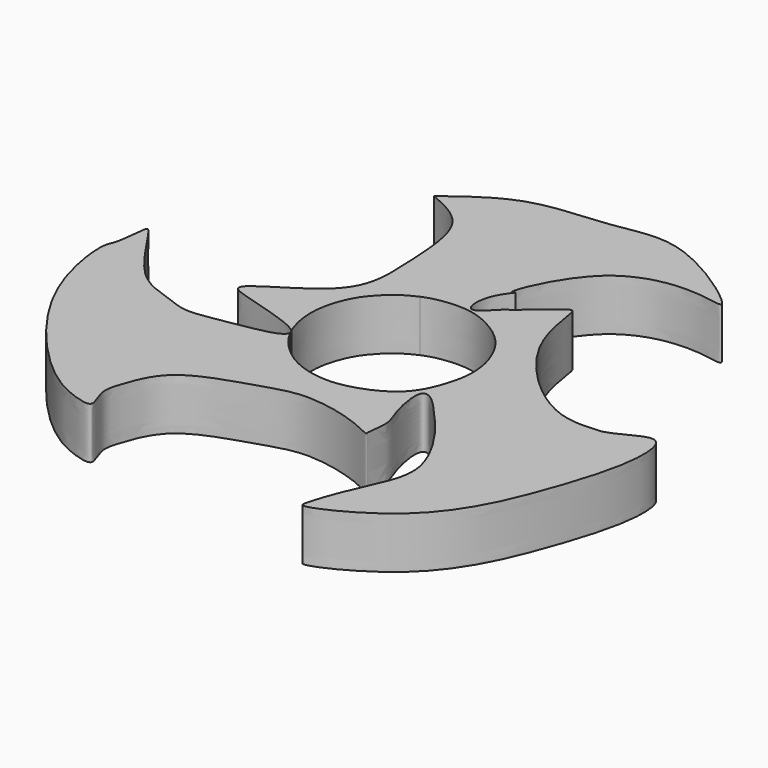
from build123d import *

# Parameters (mm, degrees)
F1_DEPTH = 7


with BuildPart() as f1:
    # F0 (on Top) → F1 (new body)
    with BuildSketch(Plane.XY):
        with BuildLine():
            add(Edge.make_bspline(
                [(30.1436260343, -1.9979744684), (28.0667697769, -2.191613933), (22.8220535576, -2.6806145737), (11.0449788488, 8.609786166), (10.8742217324, 17.4068247294), (9.8964928061, 18.1776643585), (5.0626755886, 13.4391724308), (4.7886523315, 13.8429691805), (1.3400601593, 9.4793296064), (0.8528062891, 14.7509618773), (3.5752579887, 17.7585561992), (1.7830482908, 16.0280061471), (6.9107141222, 29.1456903116), (18.4447573551, 29.4686274141), (24.2690384891, 27.7314734703), (10.0871743704, 38.1387404234), (1.7623891613, 35.2724508505), (-9.4124925515, 35.3824284219), (-14.8487011951, 31.212631693), (-17.5398550928, 29.1484054178)],
                knots=[0, 0, 0, 0, 0.0638507143, 0.1612431654, 0.2299207421, 0.2486626367, 0.3101338961, 0.3271531519, 0.3735804369, 0.4184115109, 0.4613893046, 0.4767745969, 0.5556393513, 0.6406804626, 0.6785456269, 0.7667168672, 0.8428292973, 0.9221938345, 1, 1, 1, 1], degree=3))
            add(Edge.make_bspline(
                [(-17.5398550928, 29.1484054178), (-16.8441519048, 28.8540168638), (-15.1828249089, 28.151023632), (-10.6025045211, 25.2488740166), (-10.2279046237, 14.8597097375), (-9.7181247173, 5.7579070911), (-22.80680378, 0.0615974192), (-18.024268163, -1.6338530814), (-11.0052895238, -3.4392992796), (-10.0471170164, -4.511796836)],
                knots=[0, 0, 0, 0, 0.0156869486, 0.0374587064, 0.0689761696, 0.0989629496, 0.1313755587, 0.1479146703, 0.1772421204, 0.1772421204, 0.1772421204, 0.1772421204], degree=3))
            add(Edge.make_bspline(
                [(-4.2595637944, 10.1418004457), (-4.5168692508, 10.0328762257), (-5.0106133978, 9.80904899), (-6.6965124035, 8.8776825711), (-8.8560177564, 6.7204972682), (-10.1132327074, 4.591403041), (-11.15024355, 1.304661145), (-10.9606761971, -1.9398408158), (-10.3330192793, -3.8702705307), (-10.0471170164, -4.511796836)],
                knots=[0, 0, 0, 0, 0.023913067, 0.0605381495, 0.1075417035, 0.1499507257, 0.1990202493, 0.2520416834, 0.2794085957, 0.2794085957, 0.2794085957, 0.2794085957], degree=3))
            add(Edge.make_bspline(
                [(-9.848808223, -4.9308472009), (-9.5896051241, -5.4476830294), (-8.4321033508, -7.3412879808), (-5.178162929, -10.1541794124), (-0.8588325873, -11.1591197516), (2.8486870946, -10.8877513352), (8.4393664165, -8.534719832), (10.3728376575, -4.0209857701), (10.9983422062, -1.2115441005), (11.0185148637, 0.3178718051), (10.8700503098, 2.2517822043), (9.8702269678, 5.2224630011), (7.7820982909, 8.1820552207), (3.809320163, 10.5705624639), (0.6095762466, 11.1519748636), (-2.7112138521, 10.7689696462), (-3.8982777472, 10.2947424061), (-4.2595637944, 10.1418004457)],
                knots=[0.2854002564, 0.2854002564, 0.2854002564, 0.2854002564, 0.3076960747, 0.3689059917, 0.4242958055, 0.4760538993, 0.5405284954, 0.5992931768, 0.6441478868, 0.6765299515, 0.7132715658, 0.760373171, 0.8117394763, 0.8687025936, 0.9176594324, 0.9664233415, 1, 1, 1, 1], degree=3))
            add(Edge.make_bspline(
                [(-9.848808223, -4.9308472009), (-9.834459086, -5.1742095338), (-10.5819931226, -6.2441600124), (-16.666649836, -7.0545720784), (-21.786516336, -8.25250589), (-25.3393218518, -6.4864543494), (-30.8236341585, -5.2780425141), (-36.2640319033, 4.6193999546), (-36.932016102, 3.9916530336), (-37.1123785404, -0.3447419636), (-38.2725049552, -1.3736110151), (-36.7877903398, -13.94867989), (-24.6154012288, -28.0047326132), (-18.7409134043, -30.7289609682), (-15.3524539412, -31.4493001556), (-17.3348321744, -28.0598189091), (-16.3963844057, -25.2068687109), (-14.3657128871, -19.3651091876), (-5.0944427735, -16.7366978796), (0.4280418437, -14.6706217136), (8.1218538286, -16.4978687936), (11.0639032359, -18.2092694078), (10.7982368807, -17.6307360666), (11.5148219838, -14.5694460005), (10.1038115484, -12.2344198639), (9.1452193025, -6.7588560295), (11.0810385684, -6.9339457025), (13.7299527718, -9.9720124339), (16.6253358559, -13.111099033), (21.3065463573, -20.6671417725), (19.0547463203, -26.3053178363), (17.0914911059, -30.4756327512), (15.8251889145, -34.449641093), (15.8009003608, -35.8259221055), (28.2855405969, -30.0809497585), (34.1244161163, -16.2133557272), (37.5235628789, -4.7982486055), (36.3582043486, 1.2680975906), (32.1605108718, -1.3742357057), (30.7574141456, -1.8081552829), (30.1436260343, -1.9979744684)],
                knots=[0.1811218122, 0.1811218122, 0.1811218122, 0.1811218122, 0.1880338369, 0.2131774704, 0.2365395932, 0.2552603501, 0.2797406029, 0.3114829631, 0.316844015, 0.3370335674, 0.3494377303, 0.3829648932, 0.4267269943, 0.4522406356, 0.466140041, 0.4824260451, 0.4999559361, 0.5236572553, 0.5537755025, 0.5786923581, 0.6069775668, 0.6229539564, 0.6277975887, 0.644505807, 0.6626105714, 0.6842401503, 0.6942785308, 0.7137541835, 0.7354607117, 0.76422552, 0.7879181122, 0.8101785739, 0.8301953878, 0.837180997, 0.8704104423, 0.9108844, 0.9457331988, 0.9658783611, 0.9850728355, 1, 1, 1, 1], degree=3))
        make_face()
    extrude(amount=F1_DEPTH)


solid = f1.part
